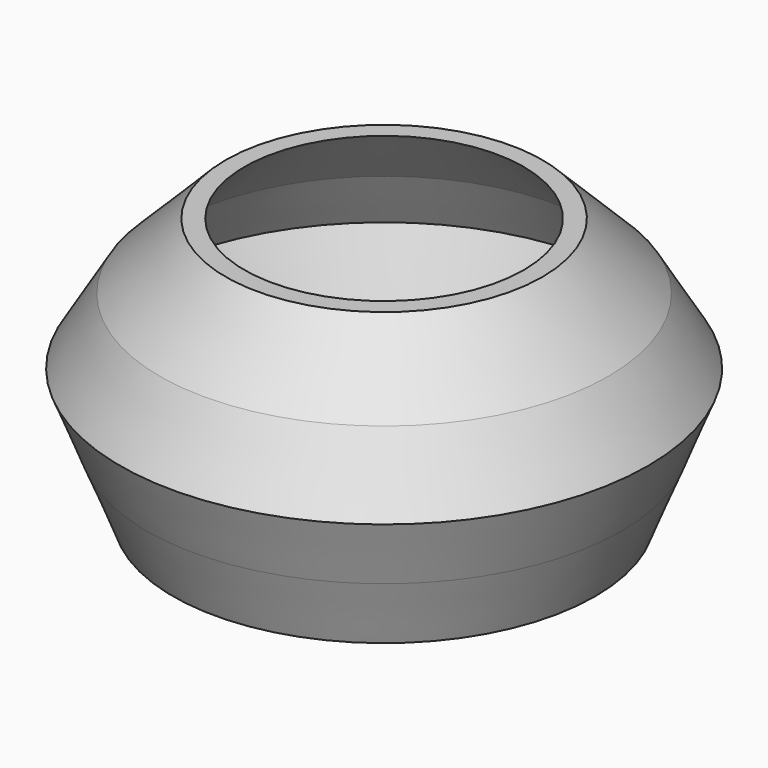
from build123d import *

# Parameters (mm, degrees)
F0_R      = 80
F2_R      = 90
F3_FACE_R = 90
F5_R      = 100
F6_FACE_R = 100
F8_R      = 85
F9_FACE_R = 85
F11_R     = 60
F13_T     = -5


with BuildPart() as f3:
    # F0 (on Top) → F3 section 0
    with BuildSketch(Plane.XY):
        Circle(F0_R)
    # F2 (on offset) → F3 section 1
    with BuildSketch(Plane.XY.offset(25)):
        Circle(F2_R)
    loft()

    # F3_face (on face) → F6 section 0
    with BuildSketch(Plane.XY.offset(25)):
        Circle(F3_FACE_R)
    # F5 (on offset) → F6 section 1
    with BuildSketch(Plane.XY.offset(50)):
        Circle(F5_R)
    loft()

    # F6_face (on face) → F9 section 0
    with BuildSketch(Plane.XY.offset(50)):
        Circle(F6_FACE_R)
    # F8 (on offset) → F9 section 1
    with BuildSketch(Plane.XY.offset(75)):
        Circle(F8_R)
    loft()

    # F9_face (on face) → F12 section 0
    with BuildSketch(Plane.XY.offset(75)):
        Circle(F9_FACE_R)
    # F11 (on offset) → F12 section 1
    with BuildSketch(Plane.XY.offset(100)):
        Circle(F11_R)
    loft()

    # F13
    f13_openings = [f3.faces().sort_by_distance(p)[0] for p in [
        (0, 0, 100),
    ]]
    offset(amount=F13_T, openings=f13_openings, kind=Kind.INTERSECTION)


solid = f3.part
